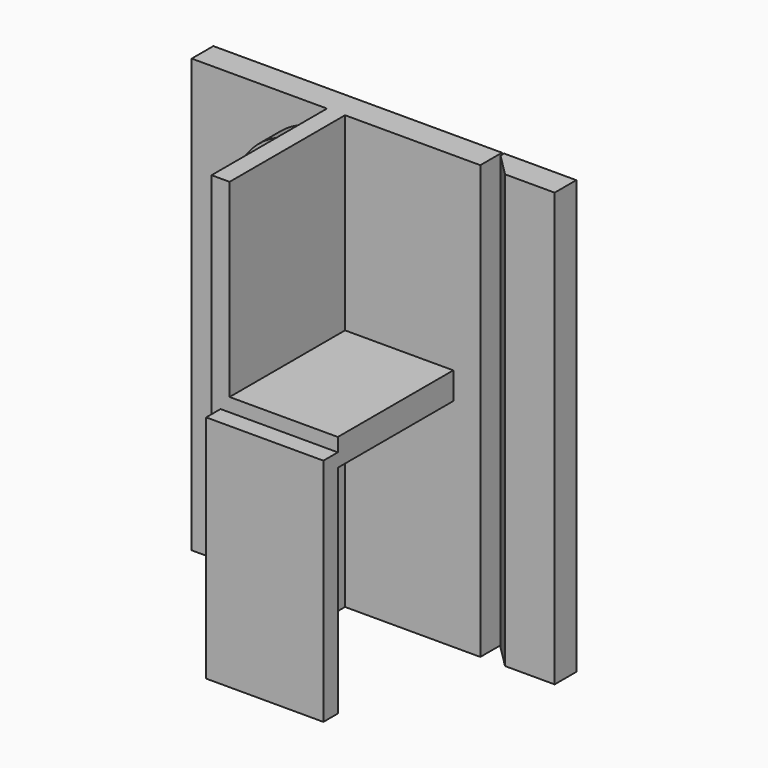
from build123d import *

# Parameters (mm, degrees)
F0_W     = 50.8
F0_H     = 304.8
F1_DEPTH = 19.05
F2_SIZE  = 15.875
F3_W     = 76.2
F3_H     = 19.05
F4_DEPTH = 101.6
F6_DEPTH = 19.05
F7_W     = 82.55
F7_H     = 161.925
F8_DEPTH = 12.7


with BuildPart() as f1:
    # F0 (on Front) → F1 (new body)
    with BuildSketch(Plane.XZ):
        with Locations((128.524, 0)):
            Rectangle(F0_W, F0_H)
    extrude(amount=-F1_DEPTH)

    # F2
    f2_edges = [f1.edges().sort_by_distance(p)[0] for p in [
        (103.124, 0, 0),
    ]]
    chamfer(f2_edges, length=F2_SIZE)


with BuildPart() as f1b:
    # F0 (on Front) → F1, piece 2 (new body)
    with BuildSketch(Plane.XZ):
        Polygon((6.35, -152.4), (101.6, -152.4), (101.6, 152.4), (-101.6, 152.4), (-101.6, -152.4), (-6.35, -152.4), align=None)
    extrude(amount=-F1_DEPTH)

    # F3 (on face) → F4 (join)
    with BuildSketch(Plane.XZ):
        Polygon((6.35, 152.4), (-6.35, 152.4), (-6.35, -152.4), (6.35, -152.4), (6.35, 0), (6.35, 19.05), align=None)
        with Locations((44.45, 9.525)):
            Rectangle(F3_W, F3_H)
    extrude(amount=F4_DEPTH)

    # F5 (on face) → F6 (join)
    with BuildSketch(Plane.XZ):
        with BuildLine():
            Line((-6.35, 38.1), (-6.35, 139.7))
            ThreePointArc((-6.35, 139.7), (-57.15, 88.9), (-6.35, 38.1))
        make_face()
    extrude(amount=F6_DEPTH)

    # F7 (on face) → F8 (join)
    with BuildSketch(Plane.XZ.offset(101.6)):
        with Locations((41.275, -71.4375)):
            Rectangle(F7_W, F7_H)
    extrude(amount=F8_DEPTH)


solid = Compound([f1.part, f1b.part])
